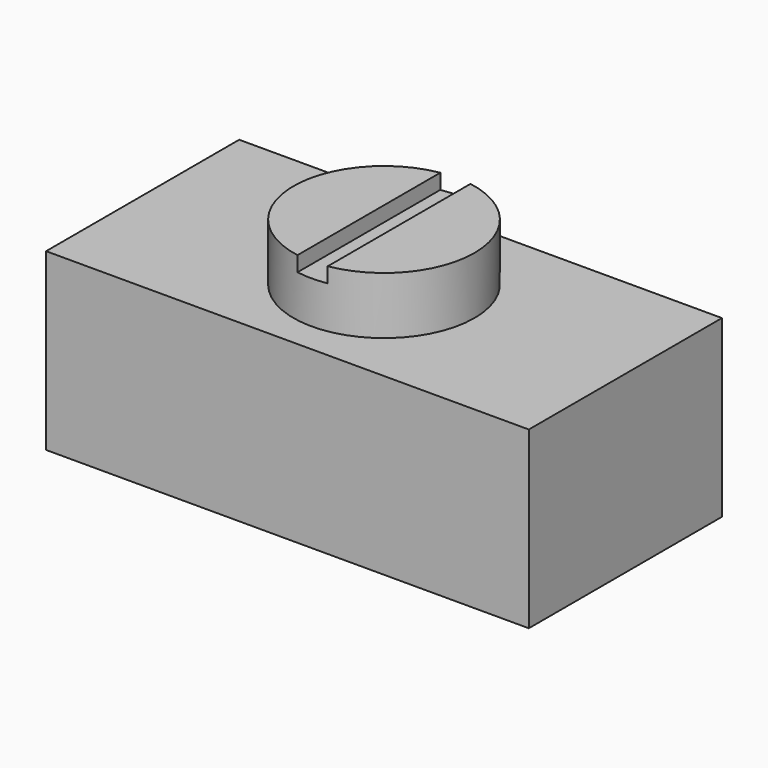
from build123d import *

# Parameters (mm, degrees)
PAD_DEPTH    = 2.5
SKETCH001_W  = 16
SKETCH001_H  = 8
PAD001_DEPTH = 3.3
SKETCH002_R  = 3
PAD002_DEPTH = 5.2
SKETCH003_W  = 1
SKETCH003_H  = 8
POCKET_DEPTH = 0.5


with BuildPart() as part:
    # Sketch → Pad (new body)
    with BuildSketch(Plane.XY):
        Polygon((-8, 4), (-8, -4), (8, -4), (8, 4), (0.7, 4), (0.7, 2.4), (7, 2.4), (7, -2.6), (-7, -2.6), (-7, 2.4), (-0.7, 2.4), (-0.7, 4), align=None)
    extrude(amount=-PAD_DEPTH)

    # Sketch001 → Pad001 (join)
    with BuildSketch(Plane.XY):
        Rectangle(SKETCH001_W, SKETCH001_H)
    extrude(amount=PAD001_DEPTH)

    # Sketch002 → Pad002 (join)
    with BuildSketch(Plane.XY):
        Circle(SKETCH002_R)
    extrude(amount=PAD002_DEPTH)

    # Sketch003 (on Face10 of Pad002) → Pocket (cut)
    with BuildSketch(Plane.XY.offset(5.2)):
        Rectangle(SKETCH003_W, SKETCH003_H)
    extrude(amount=-POCKET_DEPTH, mode=Mode.SUBTRACT)


solid = part.part
